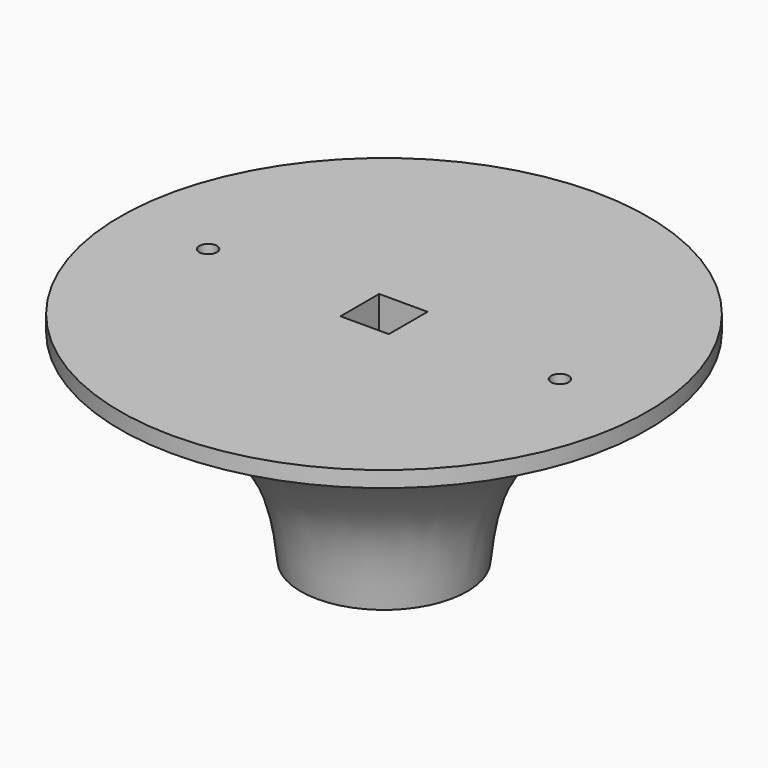
from build123d import *

# Parameters (mm, degrees)
F2_W     = 6.985
F2_H     = 6.985
F3_DEPTH = 31.3591392294
F4_R     = 1.27
F5_DEPTH = 31.3591393294


with BuildPart() as f1:
    # F0 (on Right) → F1 (revolve)
    with BuildSketch(Plane.YZ):
        with BuildLine():
            Line((0, 0), (0, 31.3581392294))
            Line((0, 31.3581392294), (-38.1, 31.3581392294))
            Line((-38.1, 31.3581392294), (-38.1, 29.0615208854))
            add(Edge.make_bspline(
                [(-38.1, 29.0615208854), (-26.7971571911, 25.1598302044), (-15.8579765578, 15.5865226046), (-12.8539522067, 8.1840861578), (-12.014542318, 0)],
                knots=[0.1026687543, 0.1026687543, 0.1026687543, 0.1026687543, 0.586312354, 1, 1, 1, 1], degree=3))
            Line((-12.014542318, 0), (0, 0))
        make_face()
    revolve(axis=Axis((0, 0, 15.6790696147), (0, 0, -1)))

    # F2 (on Top) → F3 (cut, through all)
    with BuildSketch(Plane.XY):
        Rectangle(F2_W, F2_H)
    extrude(amount=F3_DEPTH, mode=Mode.SUBTRACT)

    # F4 (on face) → F5 (cut, through all)
    with BuildSketch(Plane.XY.offset(31.3581392294)):
        with Locations((-25.4, 0)):
            Circle(F4_R)
        with Locations((25.4, 0)):
            Circle(F4_R)
    extrude(amount=-F5_DEPTH, mode=Mode.SUBTRACT)


solid = f1.part
